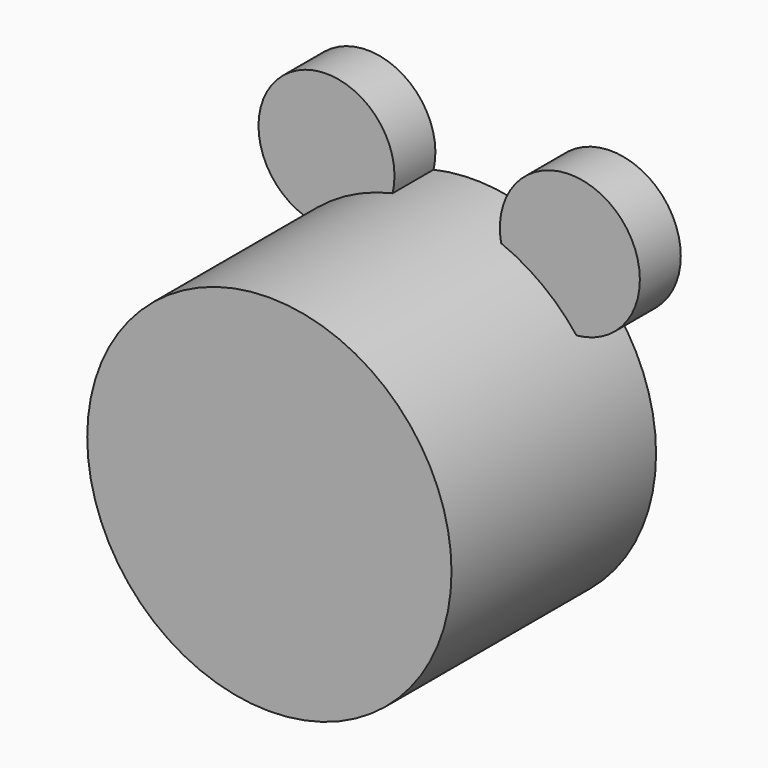
from build123d import *

# Parameters (mm, degrees)
F0_R     = 45.231736
F1_DEPTH = 63.5
F2_R     = 16.885337
F2_R_2   = 17.383209
F3_DEPTH = 12.7


with BuildPart() as f1:
    # F0 (on Front) → F1 (new body)
    with BuildSketch(Plane.XZ):
        Circle(F0_R)
    extrude(amount=F1_DEPTH)

    # F2 (on Front) → F3 (join)
    with BuildSketch(Plane.XZ):
        with Locations((-26.454598, 48.025273)):
            Circle(F2_R)
        with Locations((33.983976, 45.176312)):
            Circle(F2_R_2)
        with Locations((33.983976, 45.176312)):
            Circle(F2_R_2)
    extrude(amount=F3_DEPTH)


solid = f1.part
